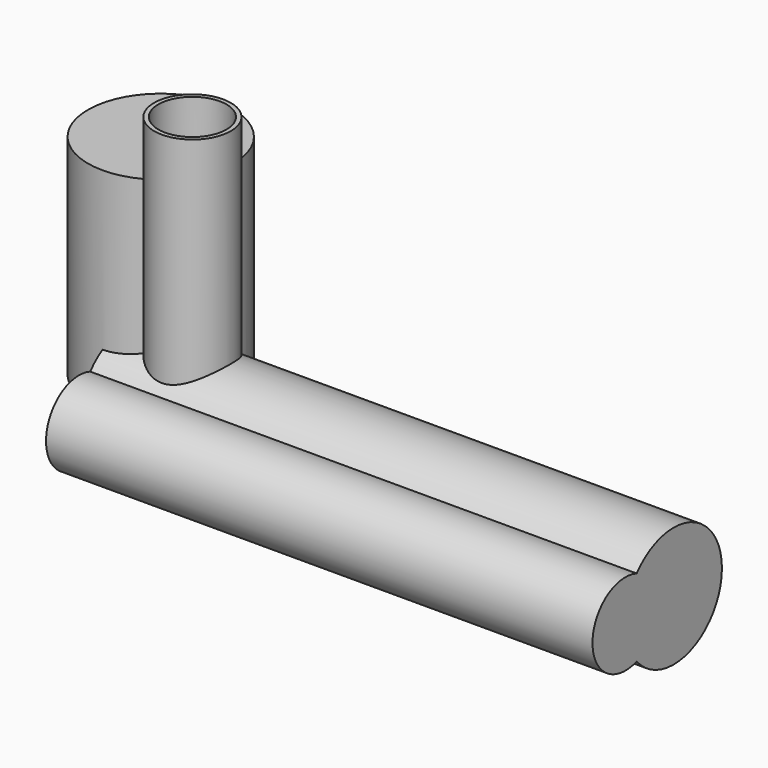
from build123d import *

# Parameters (mm, degrees)
F1_DEPTH = 36.576
F2_R     = 6.1269141817
F2_R_2   = 5.4449422531
F3_DEPTH = 42.418
F4_DEPTH = 25.4
F5_DEPTH = 25.4
F6_R     = 11.6411765601
F7_DEPTH = 33.528


with BuildPart() as f1:
    # F0 (on Right) → F1 (new body)
    with BuildSketch(Plane.YZ):
        with BuildLine():
            ThreePointArc((-7.3964224414, -6.1888854819), (3.2922075385, -9.0648076628), (9.6441364797, 0))
            ThreePointArc((9.6441364797, 0), (3.2922075385, 9.0648076628), (-7.3964224414, 6.1888854819))
            ThreePointArc((-7.3964224414, 6.1888854819), (-4.251808406, 3.7785340877), (-3.0597214027, 0))
            ThreePointArc((-3.0597214027, 0), (-4.251808406, -3.7785340877), (-7.3964224414, -6.1888854819))
        make_face()
        with BuildLine():
            ThreePointArc((-3.0597214027, 0), (-4.251808406, 3.7785340877), (-7.3964224414, 6.1888854819))
            ThreePointArc((-7.3964224414, 6.1888854819), (-9.6441364797, 0), (-7.3964224414, -6.1888854819))
            ThreePointArc((-7.3964224414, -6.1888854819), (-4.251808406, -3.7785340877), (-3.0597214027, 0))
        make_face()
        with BuildLine():
            ThreePointArc((-7.3964224414, -6.1888854819), (-9.6441364797, 0), (-7.3964224414, 6.1888854819))
            ThreePointArc((-7.3964224414, 6.1888854819), (-16.2285515567, 0), (-7.3964224414, -6.1888854819))
        make_face()
    extrude(amount=F1_DEPTH)

    # F2 (on Top) → F3 (join)
    with BuildSketch(Plane.XY):
        with Locations((10.4273650795, 0)):
            Circle(F2_R)
        with Locations((10.4273650795, 0)):
            Circle(F2_R_2, mode=Mode.SUBTRACT)
    extrude(amount=F3_DEPTH)

    # F4 (add): a face of the model
    f4_faces = [f1.faces().sort_by_distance(p)[0] for p in [
        (36.576, -2.5293914457, 0),
    ]]
    extrude(f4_faces, amount=F4_DEPTH)

    # F5 (add): a face of the model
    f5_faces = [f1.faces().sort_by_distance(p)[0] for p in [
        (61.976, -2.5293914457, 0),
    ]]
    extrude(f5_faces, amount=F5_DEPTH)

    # F6 (on Top) → F7 (join)
    with BuildSketch(Plane.XY):
        with Locations((0, 6.7043649033)):
            Circle(F6_R)
    extrude(amount=F7_DEPTH)


solid = f1.part
